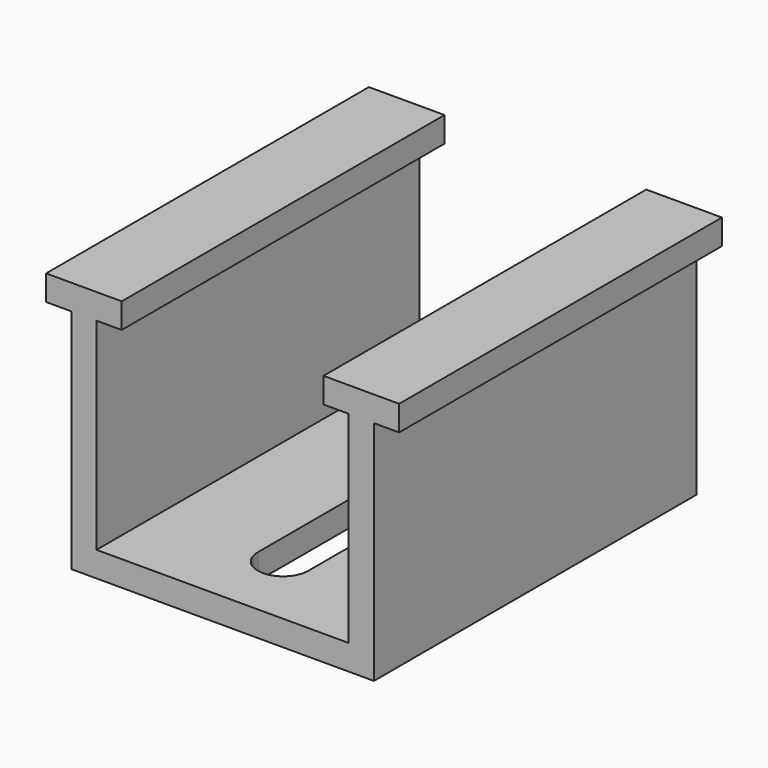
from build123d import *

# Parameters (mm, degrees)
F0_W     = 5
F0_H     = 40
F1_DEPTH = 80
F3_DEPTH = 25


with BuildPart() as f1:
    # F0 (on Front) → F1 (new body)
    with BuildSketch(Plane.XZ):
        with Locations((-15.079972, -4.429811)):
            Rectangle(F0_W, F0_H)
        Polygon((-12.579972, -24.429811), (-17.579972, -24.429811), (-17.579972, -29.429809), (42.420028, -29.429809), (42.420028, -24.429811), (37.420028, -24.429811), align=None)
        Polygon((-22.579972, 15.570189), (-17.579972, 15.570189), (-12.579972, 15.570189), (-7.579972, 15.570189), (-7.579972, 20.570189), (-22.579972, 20.570189), align=None)
        with Locations((39.920028, -4.429811)):
            Rectangle(F0_W, F0_H)
        Polygon((32.420028, 15.570189), (37.420028, 15.570189), (42.420028, 15.570189), (47.420028, 15.570189), (47.420028, 20.570189), (32.420028, 20.570189), align=None)
    extrude(amount=F1_DEPTH)

    # F2 (on face) → F3 (cut)
    with BuildSketch(Plane(origin=(0, 0, -29.429809), x_dir=(1, 0, 0), z_dir=(0, 0, -1))):
        with BuildLine():
            ThreePointArc((17.420028, 65), (12.420028, 70), (7.420028, 65))
            Line((7.420028, 65), (7.420028, 15))
            ThreePointArc((7.420028, 15), (12.420028, 10), (17.420028, 15))
            Line((17.420028, 15), (17.420028, 65))
        make_face()
    extrude(amount=-F3_DEPTH, mode=Mode.SUBTRACT)


solid = f1.part
